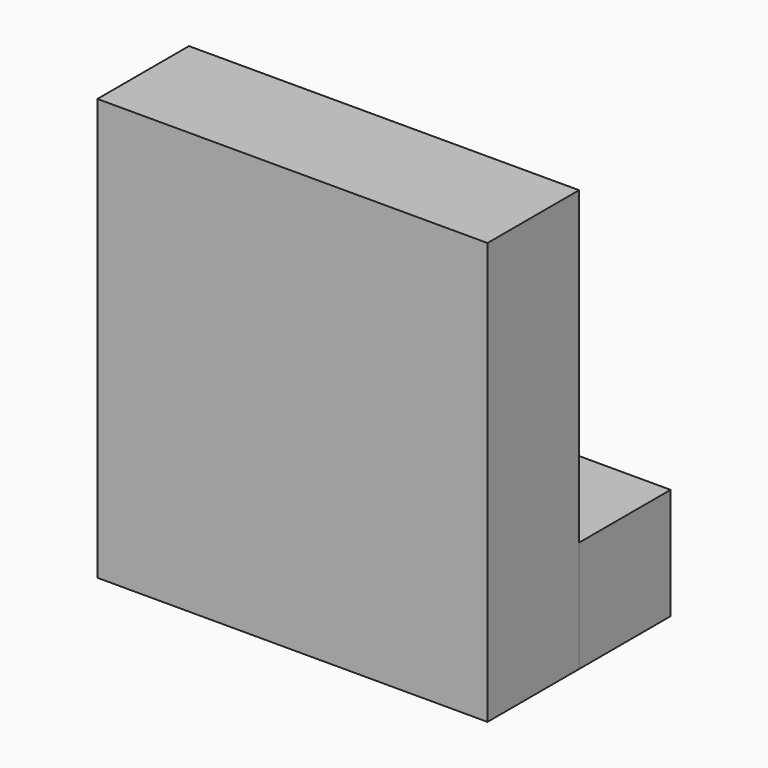
from build123d import *

# Parameters (mm, degrees)
F1_DEPTH = 25.4
F2_W     = 86.591803
F2_H     = 24.706934
F3_DEPTH = 25.4


with BuildPart() as f1:
    # F0 (on Front) → F1 (new body)
    with BuildSketch(Plane.XZ):
        Polygon((-43.707263, 48.026573), (-43.707263, -24.373226), (-43.707263, -37.331145), (42.88454, -37.331145), (42.88454, -26.430039), (42.88454, 56.253817), (-43.707263, 56.253817), align=None)
    extrude(amount=F1_DEPTH)

    # F2 (on face) → F3 (join)
    with BuildSketch(Plane(origin=(0, 0, 0), x_dir=(-1, 0, 0), z_dir=(0, 1, 0))):
        with Locations((0.411361, -24.977678)):
            Rectangle(F2_W, F2_H)
    extrude(amount=F3_DEPTH)


solid = f1.part
